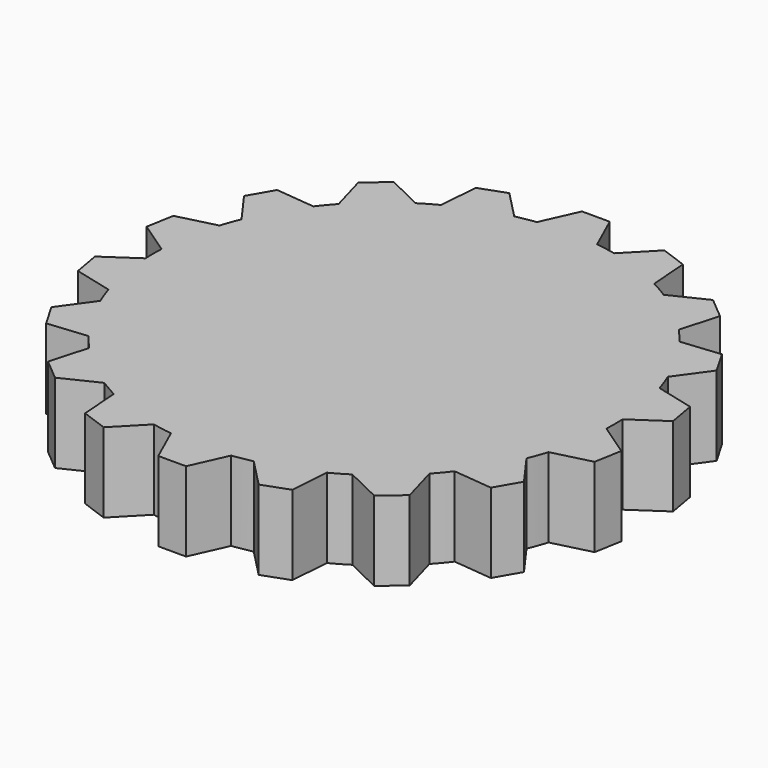
from build123d import *

# Parameters (mm, degrees)
F1_R     = 17.4
F2_DEPTH = 6
F4_COUNT = 18


with BuildPart() as f2:
    # F1 (on Top) + F0 (on Top) → F2 (new body)
    with BuildSketch(Plane.XY):
        Circle(F1_R)
    with BuildSketch(Plane.XY):
        Polygon((-1.046719, 19.972591), (-2.271156, 17.251141), (2.271156, 17.251141), (1.046719, 19.972591), (0, 19.972591), align=None)
    extrude(amount=F2_DEPTH)

    # F4: F2 ×18 about axis
    f4_axis = Axis((0, 0, 1.5), (0, 0, 1))


with BuildPart() as f2_1:
    add(f2.part)
    for i in range(1, F4_COUNT):
        add(f2.part.rotate(f4_axis, i * 360 / F4_COUNT))


solid = f2_1.part
